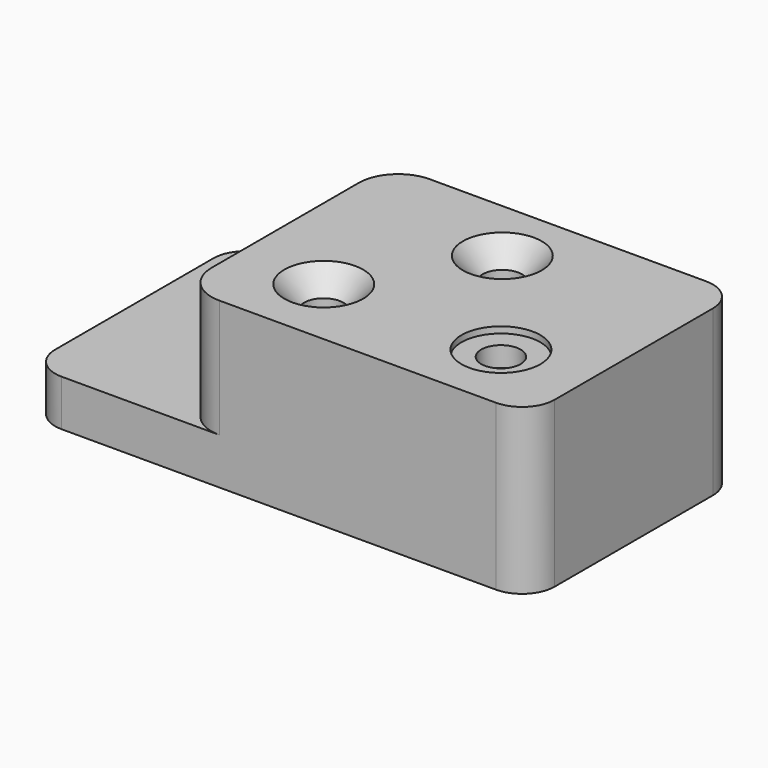
from build123d import *

# Parameters (mm, degrees)
F1_DEPTH       = 22.352
F3_DEPTH       = 79.502
F6_D           = 19.05
F6_DEPTH       = 12.7
F6_START       = 57.15
F6_CBORE_D     = 38.1
F6_CBORE_DEPTH = 3.048
F6_TIP         = 5.7231973962
F8_D           = 19.05
F8_CSINK_D     = 38.1
F8_CSINK_ANGLE = 82
F9_R           = 15.748


with BuildPart() as f1:
    # F0 (on Top) → F1 (new body)
    with BuildSketch(Plane.XY):
        with BuildLine():
            Line((91.948, 127), (72.898, 127))
            Line((72.898, 127), (72.898, 107.95))
            ThreePointArc((72.898, 107.95), (78.4776158184, 121.4203841816), (91.948, 127))
        make_face()
        with BuildLine():
            Line((72.898, 19.05), (72.898, 0))
            Line((72.898, 0), (91.948, 0))
            ThreePointArc((91.948, 0), (78.4776158184, 5.5796158184), (72.898, 19.05))
        make_face()
        Polygon((0, 127), (0, 0), (72.898, 0), (72.898, 19.05), (72.898, 107.95), (72.898, 127), align=None)
    extrude(amount=F1_DEPTH)

    # F2 (on face) → F3 (join)
    with BuildSketch(Plane.XY):
        with BuildLine():
            Line((72.898, 107.95), (72.898, 19.05))
            ThreePointArc((72.898, 19.05), (78.4776158184, 5.5796158184), (91.948, 0))
            Line((91.948, 0), (241.3, 0))
            Line((241.3, 0), (241.3, 127))
            Line((241.3, 127), (91.948, 127))
            ThreePointArc((91.948, 127), (78.4776158184, 121.4203841816), (72.898, 107.95))
        make_face()
    extrude(amount=F3_DEPTH)

    # F6
    # its depths count from where the whole tool has entered the part; down to there all is cleared
    with Locations(Plane.XY.offset(79.502)):
        with Locations((35.052, 95.25)):
            Hole(F6_CBORE_D / 2, depth=F6_START)
    with Locations(Plane.XY.offset(79.502)):
        with Locations((199.898, 35.052, 0), (35.052, 95.25, -F6_START)):
            CounterBoreHole(F6_D / 2, F6_CBORE_D / 2, F6_CBORE_DEPTH, depth=F6_DEPTH)
            with Locations((0, 0, -(F6_DEPTH + F6_TIP / 2))):  # 118° drill point
                Cone(0, F6_D / 2, F6_TIP, mode=Mode.SUBTRACT)

    # F8 (through all)
    with Locations(Plane.XY.offset(79.502)):
        with Locations((152.4, 95.25), (114.3, 35.052)):
            CounterSinkHole(F8_D / 2, F8_CSINK_D / 2, counter_sink_angle=F8_CSINK_ANGLE)

    # F9
    f9_edges = [f1.edges().sort_by_distance(p)[0] for p in [
        (0, 0, 11.176),
        (0, 127, 11.176),
        (241.3, 0, 39.751),
        (241.3, 127, 39.751),
    ]]
    fillet(f9_edges, radius=F9_R)


solid = f1.part
